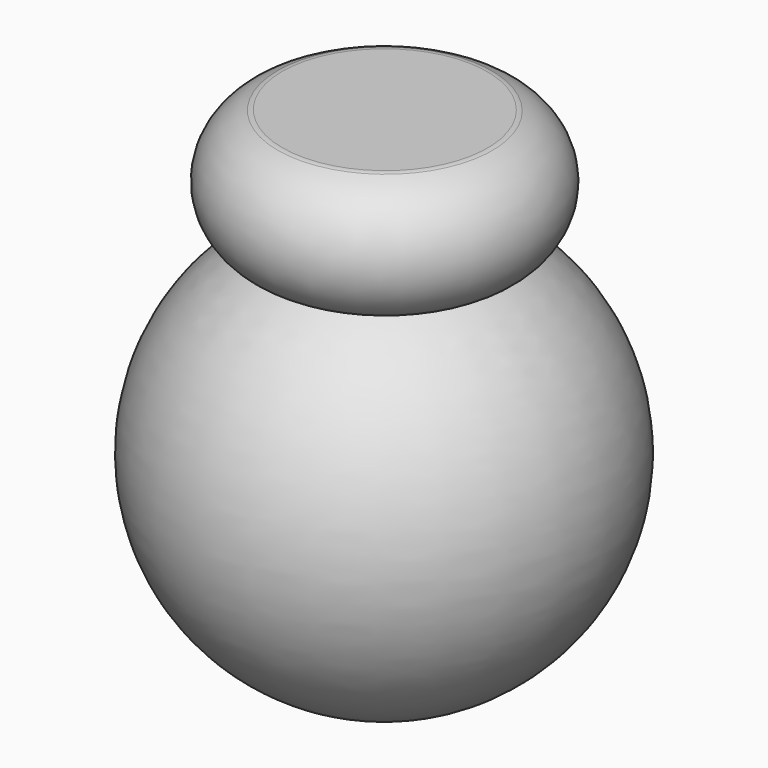
from build123d import *


with BuildPart() as f1:
    # F0 (on Front) → F1 (revolve)
    with BuildSketch(Plane.XZ):
        with BuildLine():
            ThreePointArc((-49.4404985556, 98.808210751), (-25.6977172064, 109.2703253736), (0, 112.848430872))
            Line((0, 112.848430872), (0, 153.8388133049))
            Line((0, 153.8388133049), (-45.7574388584, 153.8388133049))
            ThreePointArc((-45.7574388584, 153.8388133049), (-46.8050315734, 153.751803765), (-47.8239154506, 153.4931596052))
            ThreePointArc((-47.8239154506, 153.4931596052), (-67.5350919995, 126.7094876486), (-49.4404985556, 98.808210751))
        make_face()
        with BuildLine():
            Line((-0.5384620254, -75.2874400718), (0, 112.848430872))
            ThreePointArc((0, 112.848430872), (-25.6977172064, 109.2703253736), (-49.4404985556, 98.808210751))
            ThreePointArc((-49.4404985556, 98.808210751), (-90.5637788194, -6.6588958254), (-0.5384620254, -75.2874400718))
        make_face()
    revolve(axis=Axis((-0.2737790346, 0, 17.191439867), (-0.0028620795, 0, -0.9999959042)))


solid = f1.part
